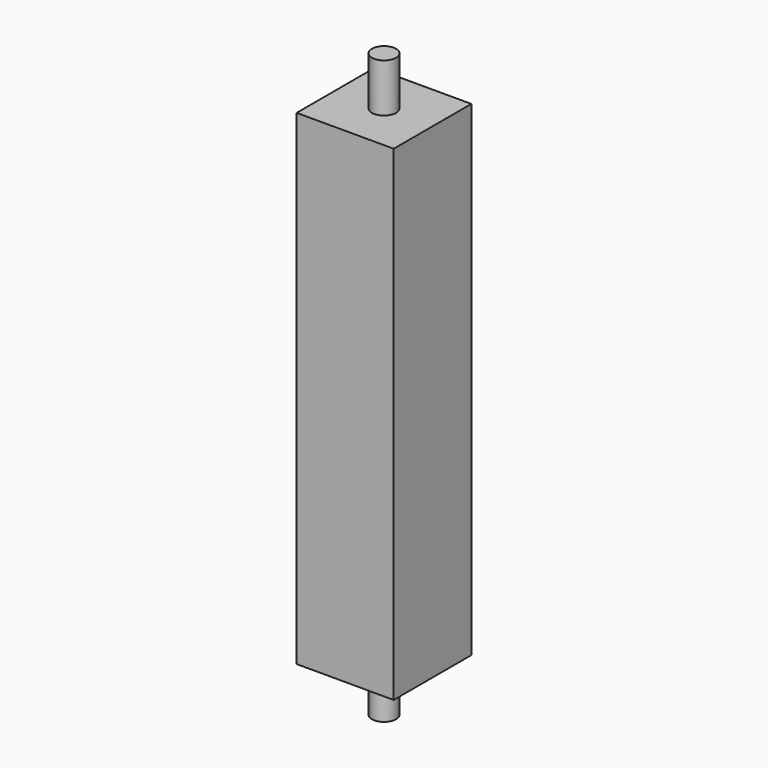
from build123d import *

# Parameters (mm, degrees)
SKETCH_W     = 40
SKETCH_H     = 200
PAD_DEPTH    = 40
SKETCH001_R  = 5
PAD001_DEPTH = 20
PAD002_DEPTH = 220


with BuildPart() as part:
    # Sketch → Pad (new body)
    with BuildSketch(Plane.XZ):
        with Locations((20, 100)):
            Rectangle(SKETCH_W, SKETCH_H)
    extrude(amount=PAD_DEPTH)

    # Sketch001 → Pad001 (join)
    with BuildSketch(Plane.XY):
        with Locations((20, -20)):
            Circle(SKETCH001_R)
    extrude(amount=-PAD001_DEPTH)

    # Sketch001 → Pad002 (join)
    with BuildSketch(Plane.XY):
        with Locations((20, -20)):
            Circle(SKETCH001_R)
    extrude(amount=PAD002_DEPTH)


solid = part.part
